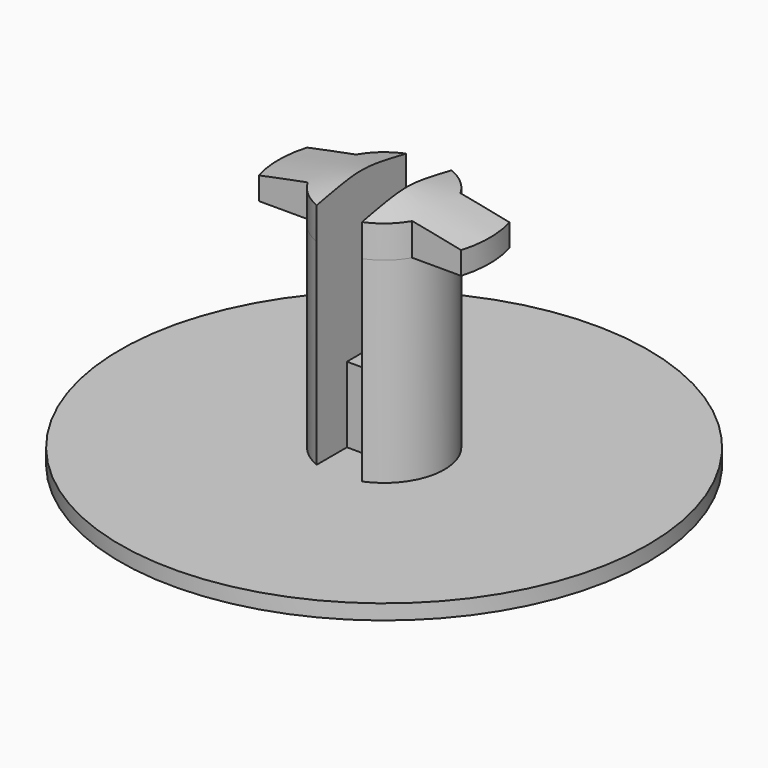
from build123d import *

# Parameters (mm, degrees)
F2_W     = 3
F2_H     = 11.5
F3_DEPTH = 25
F5_DEPTH = 15.679571
F6_W     = 15
F6_H     = 3
F7_DEPTH = 2
F8_W     = 3
F8_H     = 3.791901
F9_DEPTH = 5


with BuildPart() as f1:
    # F0 (on Front) → F1 (revolve)
    with BuildSketch(Plane.XZ):
        Polygon((0, 20), (0, 0), (11.5, 0), (17.5, 3), (17.5, 4), (4, 4), (4, 17), (7, 17), (7, 18.5), align=None)
    revolve(axis=Axis((0, 0, 10), (0, 0, -1)))

    # F2 (on Front) → F3 (cut, symmetric)
    with BuildSketch(Plane.XZ):
        with Locations((0, 14.75)):
            Rectangle(F2_W, F2_H)
    extrude(amount=F3_DEPTH, both=True, mode=Mode.SUBTRACT)

    # F4 (on face) → F5 (cut, through all)
    with BuildSketch(Plane.XY.offset(4)):
        with BuildLine():
            ThreePointArc((3.464102, -2), (0, -4), (-3.464102, -2))
            Line((-3.464102, -2), (-11.425484, -2))
            Line((-11.425484, -2), (-11.425484, -9.836984))
            Line((-11.425484, -9.836984), (10.346696, -9.836984))
            Line((10.346696, -9.836984), (10.346696, -2))
            Line((10.346696, -2), (3.464102, -2))
        make_face()
        with BuildLine():
            Line((-11.425484, 9.079754), (-11.425484, 2))
            Line((-11.425484, 2), (-3.464102, 2))
            ThreePointArc((-3.464102, 2), (0, 4), (3.464102, 2))
            Line((3.464102, 2), (10.346696, 2))
            Line((10.346696, 2), (10.346696, 9.079754))
            Line((10.346696, 9.079754), (-11.425484, 9.079754))
        make_face()
    extrude(amount=F5_DEPTH, mode=Mode.SUBTRACT)

    # F6 (on face) → F7 (cut)
    with BuildSketch(Plane(origin=(0, 0, 0), x_dir=(1, 0, 0), z_dir=(0, 0, -1))):
        Rectangle(F6_W, F6_H)
    extrude(amount=-F7_DEPTH, mode=Mode.SUBTRACT)

    # F8 (on face) → F9 (cut, through all)
    with BuildSketch(Plane.XY.offset(9)):
        with Locations((0, 3.104049)):
            Rectangle(F8_W, F8_H)
        with Locations((0, -3.104049)):
            Rectangle(F8_W, F8_H)
    extrude(amount=-F9_DEPTH, mode=Mode.SUBTRACT)


solid = f1.part
